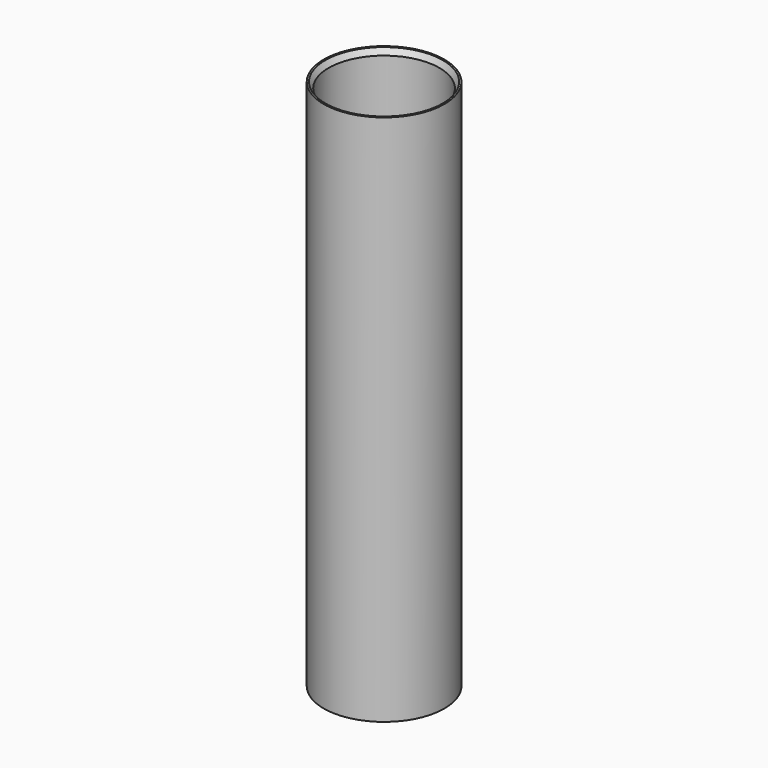
from build123d import *

# Parameters (mm, degrees)
F0_W     = 21
F0_H     = 185
F2_R     = 19.25
F3_DEPTH = 185.001
F4_SIZE2 = 1.1547005384
F4_SIZE  = 2


with BuildPart() as f1:
    # F0 (on Front) → F1 (revolve)
    with BuildSketch(Plane.XZ):
        Rectangle(F0_W, F0_H)
    revolve(axis=Axis((-10.5, 0, 0), (0, 0, 1)))

    # F2 (on face) → F3 (cut, through all)
    with BuildSketch(Plane.XY.offset(92.5)):
        with Locations((-10.5, 0)):
            Circle(F2_R)
    extrude(amount=-F3_DEPTH, mode=Mode.SUBTRACT)

    # F4
    f4_edges = [f1.edges().sort_by_distance(p)[0] for p in [
        (-29.75, 0, 92.5),
        (-29.75, 0, -92.5),
    ]]
    f4_side = f1.faces().sort_by_distance((-29.75, 0, 0))[0]
    chamfer(f4_edges, length=F4_SIZE, length2=F4_SIZE2, reference=f4_side)


solid = f1.part
